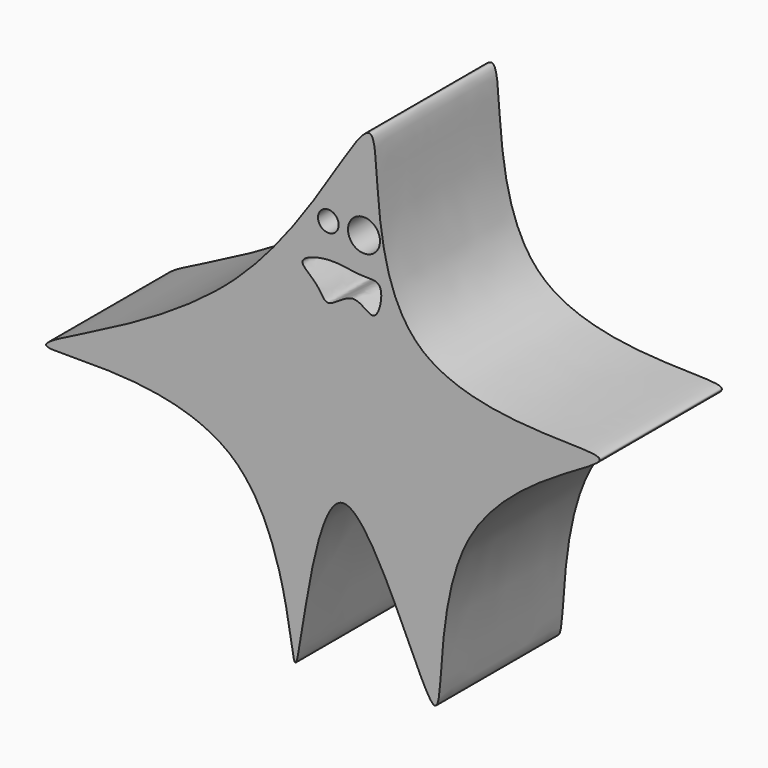
from build123d import *

# Parameters (mm, degrees)
F1_DEPTH = 25.4
F2_R     = 1.7146461383
F2_R_2   = 2.6592836785
F3_DEPTH = 25.4
F4_DEPTH = 57.658


with BuildPart() as f1:
    # F0 (on Front) → F1 (new body)
    with BuildSketch(Plane.XZ):
        with BuildLine():
            add(Edge.make_bspline(
                [(0, 0), (13.2413225698, 12.2906155291), (26.8794136772, 46.7375640483), (19.4641990423, -10.8943979613), (78.2388702925, -2.5344594418), (29.8095470255, -18.7323458127), (37.7151070538, -71.6709939974), (14.9203116386, -4.1626881693), (8.9421819295, -74.1337744422), (9.030981656, -14.5273457095), (-51.6111356831, -25.0084413334), (-13.4813607568, -12.5134193353), (0, 0)],
                knots=[0, 0, 0, 0, 0.1090183416, 0.2073506003, 0.3079219884, 0.4042016586, 0.4990331524, 0.5962996298, 0.6903480937, 0.7859748206, 0.8890053781, 1, 1, 1, 1], degree=3))
        make_face()
    extrude(amount=F1_DEPTH)

    # F2 (on Front) → F3 (cut)
    with BuildSketch(Plane.XZ):
        with Locations((15.3057370335, 13.3380843326)):
            Circle(F2_R)
        with Locations((21.2302021682, 13.2018905133)):
            Circle(F2_R_2)
        with BuildLine():
            add(Edge.make_bspline(
                [(15.3865385801, 7.69326929), (13.4489410872, 7.5856760946), (9.1372264055, 6.3320692228), (13.7980278493, 3.6970017472), (14.9728072618, -0.0603410838), (19.4349754002, 4.9231823181), (22.6926253445, 0.8788905969), (24.1434187189, 3.7338706216), (24.2694045544, 7.5606104359), (20.3541970468, 6.8847250562), (17.4651603269, 7.8086934464), (15.3865385801, 7.69326929)],
                knots=[0, 0, 0, 0, 0.1271251484, 0.238162016, 0.3367816814, 0.4625531465, 0.5718222755, 0.659196982, 0.7626264293, 0.8636222956, 1, 1, 1, 1], degree=3))
        make_face()
    extrude(amount=-F3_DEPTH, mode=Mode.SUBTRACT)

    # F2 (on Front) → F4 (cut, symmetric)
    with BuildSketch(Plane.XZ):
        with Locations((15.3057370335, 13.3380843326)):
            Circle(F2_R)
        with Locations((21.2302021682, 13.2018905133)):
            Circle(F2_R_2)
        with BuildLine():
            add(Edge.make_bspline(
                [(15.3865385801, 7.69326929), (13.4489410872, 7.5856760946), (9.1372264055, 6.3320692228), (13.7980278493, 3.6970017472), (14.9728072618, -0.0603410838), (19.4349754002, 4.9231823181), (22.6926253445, 0.8788905969), (24.1434187189, 3.7338706216), (24.2694045544, 7.5606104359), (20.3541970468, 6.8847250562), (17.4651603269, 7.8086934464), (15.3865385801, 7.69326929)],
                knots=[0, 0, 0, 0, 0.1271251484, 0.238162016, 0.3367816814, 0.4625531465, 0.5718222755, 0.659196982, 0.7626264293, 0.8636222956, 1, 1, 1, 1], degree=3))
        make_face()
    extrude(amount=F4_DEPTH, both=True, mode=Mode.SUBTRACT)


solid = f1.part
